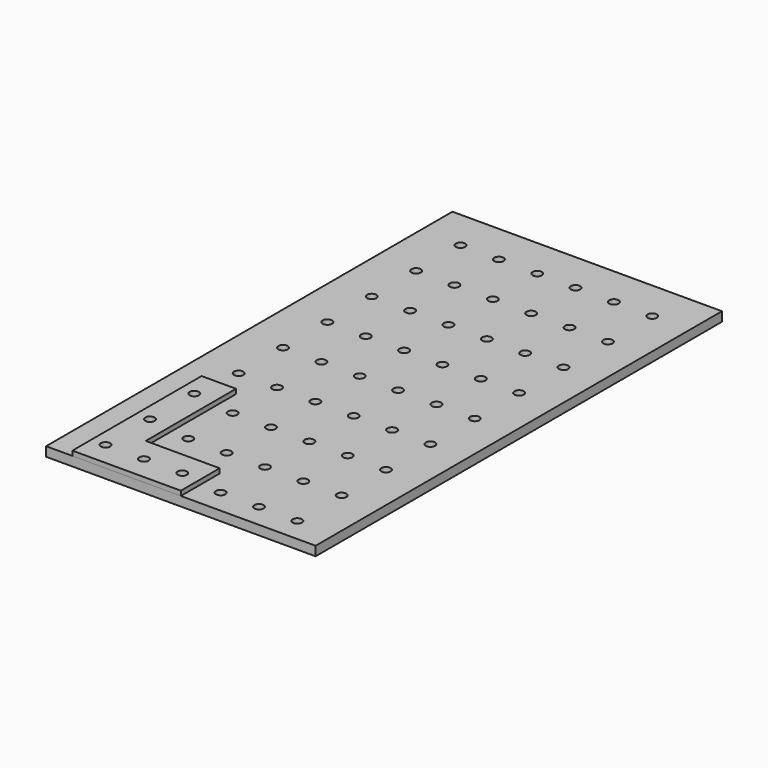
from build123d import *

# Parameters (mm, degrees)
F0_W     = 520
F0_H     = 980
F0_R     = 9
F1_DEPTH = 18
F2_R     = 9
F3_DEPTH = 9


with BuildPart() as f1:
    # F0 (on Top) → F1 (new body)
    with BuildSketch(Plane.XY):
        Rectangle(F0_W, F0_H)
        with Locations((-182, -444)):
            Circle(F0_R, mode=Mode.SUBTRACT)
        with Locations((-182, -337)):
            Circle(F0_R, mode=Mode.SUBTRACT)
        with Locations((-108, -444)):
            Circle(F0_R, mode=Mode.SUBTRACT)
        with Locations((-34, -444)):
            Circle(F0_R, mode=Mode.SUBTRACT)
        with Locations((-108, -337)):
            Circle(F0_R, mode=Mode.SUBTRACT)
        with Locations((-34, -337)):
            Circle(F0_R, mode=Mode.SUBTRACT)
        with Locations((-182, -230)):
            Circle(F0_R, mode=Mode.SUBTRACT)
        with Locations((-182, -123)):
            Circle(F0_R, mode=Mode.SUBTRACT)
        with Locations((-182, -16)):
            Circle(F0_R, mode=Mode.SUBTRACT)
        with Locations((-108, -230)):
            Circle(F0_R, mode=Mode.SUBTRACT)
        with Locations((-108, -123)):
            Circle(F0_R, mode=Mode.SUBTRACT)
        with Locations((-34, -230)):
            Circle(F0_R, mode=Mode.SUBTRACT)
        with Locations((-34, -123)):
            Circle(F0_R, mode=Mode.SUBTRACT)
        with Locations((-108, -16)):
            Circle(F0_R, mode=Mode.SUBTRACT)
        with Locations((-34, -16)):
            Circle(F0_R, mode=Mode.SUBTRACT)
        with Locations((40, -444)):
            Circle(F0_R, mode=Mode.SUBTRACT)
        with Locations((114, -444)):
            Circle(F0_R, mode=Mode.SUBTRACT)
        with Locations((40, -337)):
            Circle(F0_R, mode=Mode.SUBTRACT)
        with Locations((114, -337)):
            Circle(F0_R, mode=Mode.SUBTRACT)
        with Locations((188, -444)):
            Circle(F0_R, mode=Mode.SUBTRACT)
        with Locations((188, -337)):
            Circle(F0_R, mode=Mode.SUBTRACT)
        with Locations((40, -230)):
            Circle(F0_R, mode=Mode.SUBTRACT)
        with Locations((40, -123)):
            Circle(F0_R, mode=Mode.SUBTRACT)
        with Locations((114, -230)):
            Circle(F0_R, mode=Mode.SUBTRACT)
        with Locations((114, -123)):
            Circle(F0_R, mode=Mode.SUBTRACT)
        with Locations((40, -16)):
            Circle(F0_R, mode=Mode.SUBTRACT)
        with Locations((114, -16)):
            Circle(F0_R, mode=Mode.SUBTRACT)
        with Locations((188, -230)):
            Circle(F0_R, mode=Mode.SUBTRACT)
        with Locations((188, -123)):
            Circle(F0_R, mode=Mode.SUBTRACT)
        with Locations((188, -16)):
            Circle(F0_R, mode=Mode.SUBTRACT)
        with Locations((-182, 91)):
            Circle(F0_R, mode=Mode.SUBTRACT)
        with Locations((-182, 198)):
            Circle(F0_R, mode=Mode.SUBTRACT)
        with Locations((-108, 91)):
            Circle(F0_R, mode=Mode.SUBTRACT)
        with Locations((-34, 91)):
            Circle(F0_R, mode=Mode.SUBTRACT)
        with Locations((-108, 198)):
            Circle(F0_R, mode=Mode.SUBTRACT)
        with Locations((-34, 198)):
            Circle(F0_R, mode=Mode.SUBTRACT)
        with Locations((-182, 305)):
            Circle(F0_R, mode=Mode.SUBTRACT)
        with Locations((-182, 412)):
            Circle(F0_R, mode=Mode.SUBTRACT)
        with Locations((-108, 305)):
            Circle(F0_R, mode=Mode.SUBTRACT)
        with Locations((-34, 305)):
            Circle(F0_R, mode=Mode.SUBTRACT)
        with Locations((-108, 412)):
            Circle(F0_R, mode=Mode.SUBTRACT)
        with Locations((-34, 412)):
            Circle(F0_R, mode=Mode.SUBTRACT)
        with Locations((40, 91)):
            Circle(F0_R, mode=Mode.SUBTRACT)
        with Locations((114, 91)):
            Circle(F0_R, mode=Mode.SUBTRACT)
        with Locations((40, 198)):
            Circle(F0_R, mode=Mode.SUBTRACT)
        with Locations((114, 198)):
            Circle(F0_R, mode=Mode.SUBTRACT)
        with Locations((188, 91)):
            Circle(F0_R, mode=Mode.SUBTRACT)
        with Locations((188, 198)):
            Circle(F0_R, mode=Mode.SUBTRACT)
        with Locations((40, 305)):
            Circle(F0_R, mode=Mode.SUBTRACT)
        with Locations((114, 305)):
            Circle(F0_R, mode=Mode.SUBTRACT)
        with Locations((40, 412)):
            Circle(F0_R, mode=Mode.SUBTRACT)
        with Locations((114, 412)):
            Circle(F0_R, mode=Mode.SUBTRACT)
        with Locations((188, 305)):
            Circle(F0_R, mode=Mode.SUBTRACT)
        with Locations((188, 412)):
            Circle(F0_R, mode=Mode.SUBTRACT)
    extrude(amount=F1_DEPTH)


with BuildPart() as f3:
    # F2 (on face) → F3 (new body)
    with BuildSketch(Plane.XY.offset(18)):
        Polygon((-142.777354, -490), (0, -490), (0, -396.273166), (-142.777354, -396.273166), (-142.777354, -178.424999), (-209.221035, -178.424999), (-209.221035, -490), align=None)
        with Locations((-182, -444)):
            Circle(F2_R, mode=Mode.SUBTRACT)
        with Locations((-182, -337)):
            Circle(F2_R, mode=Mode.SUBTRACT)
        with Locations((-108, -444)):
            Circle(F2_R, mode=Mode.SUBTRACT)
        with Locations((-34, -444)):
            Circle(F2_R, mode=Mode.SUBTRACT)
        with Locations((-182, -230)):
            Circle(F2_R, mode=Mode.SUBTRACT)
    extrude(amount=F3_DEPTH)


solid = Compound([f1.part, f3.part])
